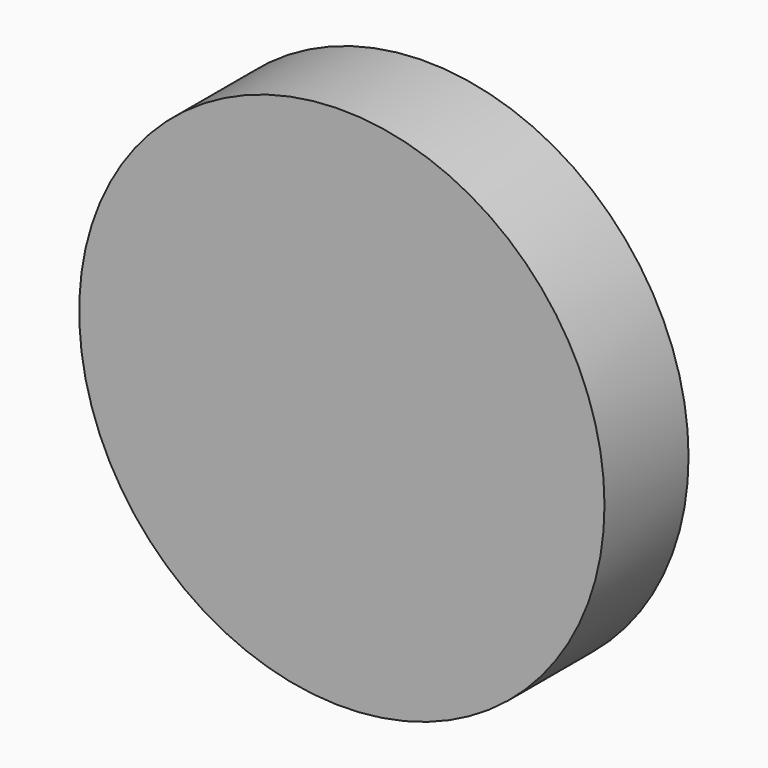
from build123d import *

# Parameters (mm, degrees)
F0_R     = 63.5
F1_DEPTH = 25.4


with BuildPart() as f1:
    # F0 (on Front) → F1 (new body)
    with BuildSketch(Plane.XZ):
        Circle(F0_R)
        with BuildLine():
            ThreePointArc((-57.15, 0), (-39.8459337637, 40.9685740843), (1.5875, 57.127947134))
            ThreePointArc((1.5875, 57.127947134), (43.0209337637, 40.9685740843), (60.325, 0))
            ThreePointArc((60.325, 0), (43.0209337637, -40.9685740843), (1.5875, -57.127947134))
            ThreePointArc((1.5875, -57.127947134), (-39.8459337637, -40.9685740843), (-57.15, 0))
        make_face(mode=Mode.SUBTRACT)
        with BuildLine():
            ThreePointArc((1.5875, -57.127947134), (40.9685740843, -39.8459337637), (57.15, 0))
            ThreePointArc((57.15, 0), (40.9685740843, 39.8459337637), (1.5875, 57.127947134))
            ThreePointArc((1.5875, 57.127947134), (-37.7935740843, 39.8459337637), (-53.975, 0))
            ThreePointArc((-53.975, 0), (-37.7935740843, -39.8459337637), (1.5875, -57.127947134))
        make_face()
        with BuildLine():
            ThreePointArc((-53.975, 0), (-37.7935740843, 39.8459337637), (1.5875, 57.127947134))
            ThreePointArc((1.5875, 57.127947134), (-39.8459337637, 40.9685740843), (-57.15, 0))
            Line((-57.15, 0), (-53.975, 0))
        make_face()
        with BuildLine():
            ThreePointArc((-57.15, 0), (-39.8459337637, -40.9685740843), (1.5875, -57.127947134))
            ThreePointArc((1.5875, -57.127947134), (-37.7935740843, -39.8459337637), (-53.975, 0))
            Line((-53.975, 0), (-57.15, 0))
        make_face()
        with BuildLine():
            ThreePointArc((1.5875, 57.127947134), (40.9685740843, 39.8459337637), (57.15, 0))
            Line((57.15, 0), (60.325, 0))
            ThreePointArc((60.325, 0), (43.0209337637, 40.9685740843), (1.5875, 57.127947134))
        make_face()
        with BuildLine():
            Line((60.325, 0), (57.15, 0))
            ThreePointArc((57.15, 0), (40.9685740843, -39.8459337637), (1.5875, -57.127947134))
            ThreePointArc((1.5875, -57.127947134), (43.0209337637, -40.9685740843), (60.325, 0))
        make_face()
    extrude(amount=F1_DEPTH)


solid = f1.part
